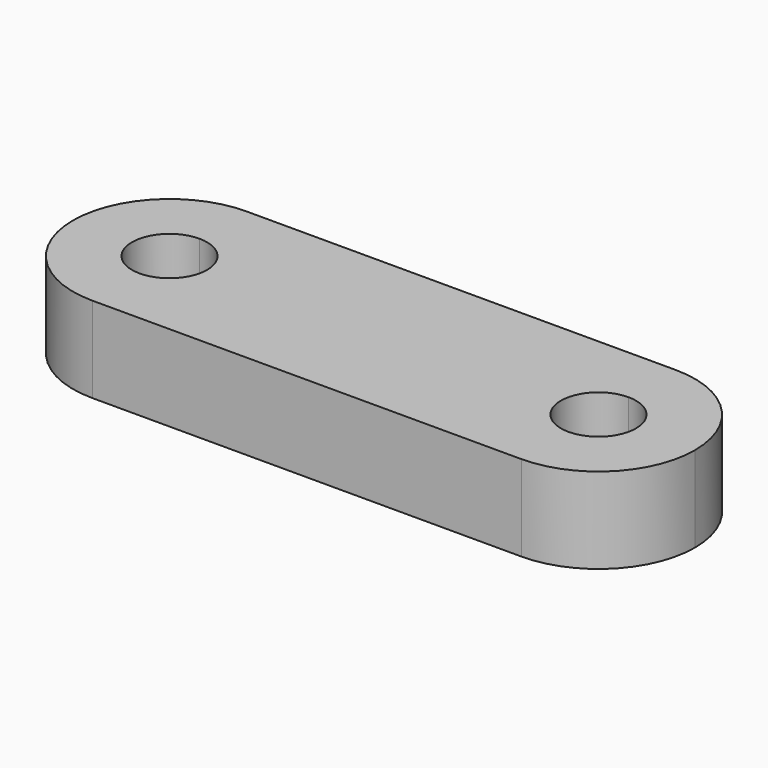
from build123d import *

# Parameters (mm, degrees)
F1_DEPTH = 4


with BuildPart() as f1:
    # F0 (on Top) → F1 (new body)
    with BuildSketch(Plane.XY):
        with BuildLine():
            ThreePointArc((0, -4.5), (3.1819805153, -3.1819805153), (4.5, 0))
            ThreePointArc((4.5, 0), (3.1819805153, 3.1819805153), (0, 4.5))
            Line((0, 4.5), (0, 1.75))
            ThreePointArc((0, 1.75), (1.2374368671, 1.2374368671), (1.75, 0))
            ThreePointArc((1.75, 0), (1.2374368671, -1.2374368671), (0, -1.75))
            Line((0, -1.75), (0, -4.5))
        make_face()
        with BuildLine():
            ThreePointArc((0, 4.5), (3.1819805153, 3.1819805153), (4.5, 0))
            ThreePointArc((4.5, 0), (3.1819805153, -3.1819805153), (0, -4.5))
            Line((0, -4.5), (20, -4.5))
            ThreePointArc((20, -4.5), (15.5, 0), (20, 4.5))
            Line((20, 4.5), (0, 4.5))
        make_face()
        with BuildLine():
            Line((0, 1.75), (0, 4.5))
            ThreePointArc((0, 4.5), (-4.5, 0), (0, -4.5))
            Line((0, -4.5), (0, -1.75))
            ThreePointArc((0, -1.75), (-1.75, 0), (0, 1.75))
        make_face()
        with BuildLine():
            Line((20, 1.75), (20, 4.5))
            ThreePointArc((20, 4.5), (15.5, 0), (20, -4.5))
            Line((20, -4.5), (20, -1.75))
            ThreePointArc((20, -1.75), (18.25, 0), (20, 1.75))
        make_face()
        with BuildLine():
            ThreePointArc((24.5, 0), (23.1819805153, 3.1819805153), (20, 4.5))
            Line((20, 4.5), (20, 1.75))
            ThreePointArc((20, 1.75), (21.2374368671, 1.2374368671), (21.75, 0))
            ThreePointArc((21.75, 0), (21.2374368671, -1.2374368671), (20, -1.75))
            Line((20, -1.75), (20, -4.5))
            ThreePointArc((20, -4.5), (23.1819805153, -3.1819805153), (24.5, 0))
        make_face()
    extrude(amount=F1_DEPTH)


solid = f1.part
